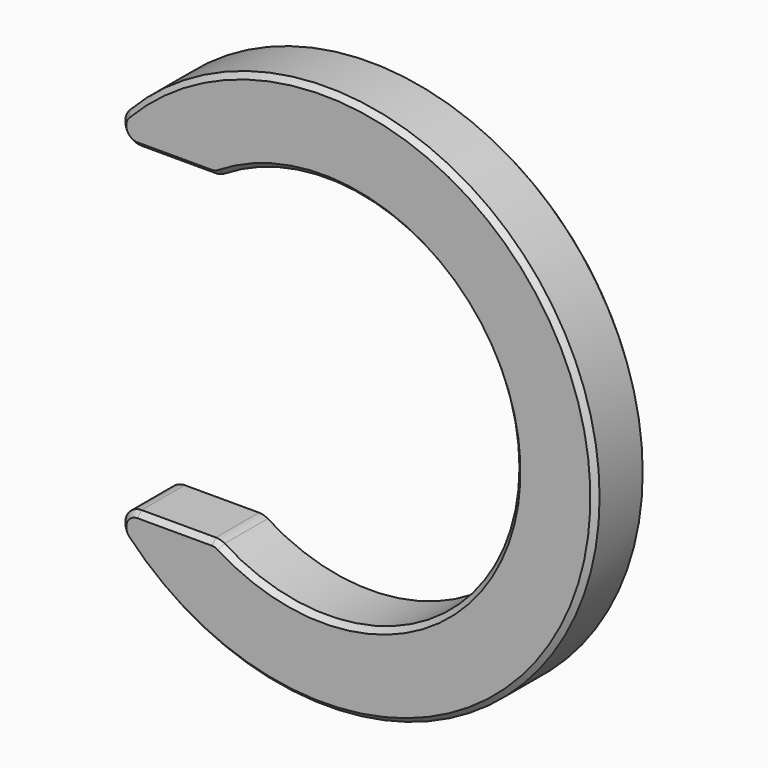
from build123d import *

# Parameters (mm, degrees)
F1_DEPTH = 3.175
F2_SIZE  = 0.254


with BuildPart() as f1:
    # F0 (on Front) → F1 (new body)
    with BuildSketch(Plane.XZ):
        with BuildLine():
            ThreePointArc((-9.178167, -7.9375), (-9.925332, -8.430318), (-9.766452, -9.31116))
            ThreePointArc((-9.766452, -9.31116), (13.49375, 0), (-9.766452, 9.31116))
            ThreePointArc((-9.766452, 9.31116), (-9.925332, 8.430318), (-9.178167, 7.9375))
            Line((-9.178167, 7.9375), (-5.504758, 7.9375))
            ThreePointArc((-5.504758, 7.9375), (-5.279535, 7.969327), (-5.071951, 8.062316))
            ThreePointArc((-5.071951, 8.062316), (9.525, 0), (-5.071951, -8.062316))
            ThreePointArc((-5.071951, -8.062316), (-5.279535, -7.969327), (-5.504758, -7.9375))
            Line((-5.504758, -7.9375), (-9.178167, -7.9375))
        make_face()
    extrude(amount=-F1_DEPTH)

    # F2
    f2_edges = [f1.edges().sort_by_distance(p)[0] for p in [
        (13.49375, 0, 0),
        (13.49375, 3.175, 0),
    ]]
    chamfer(f2_edges, length=F2_SIZE)


solid = f1.part
